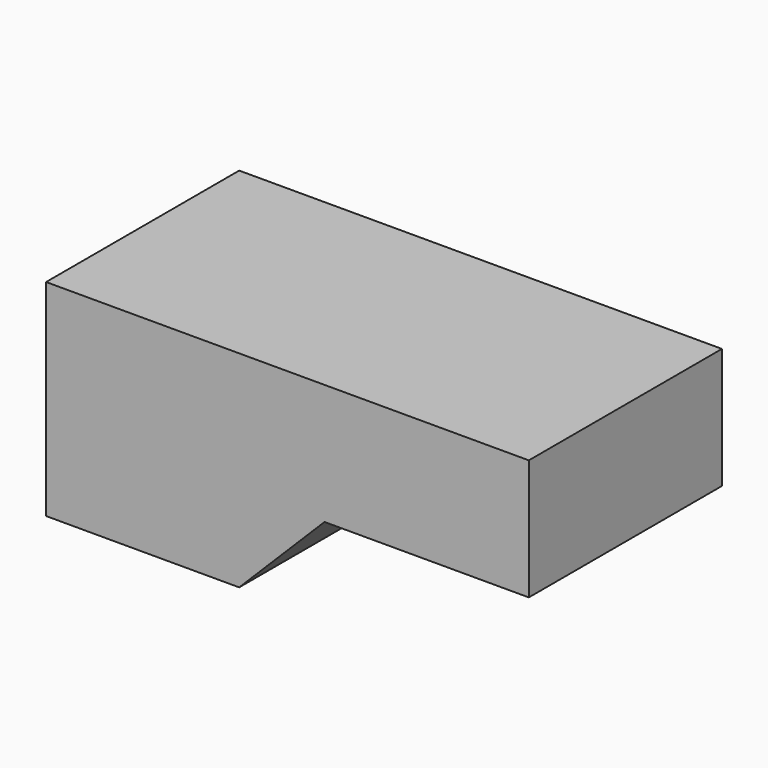
from build123d import *

# Parameters (mm, degrees)
PAD_DEPTH            = 10
BODY_PLACEMENT_ANGLE = 90


with BuildPart() as part:
    # Sketch → Pad (new body)
    with BuildSketch(Plane.XY):
        Polygon((0, 0), (8, 0), (11.535534, 3.535534), (20, 3.535534), (20, 8.535534), (0, 8.535534), align=None)
    extrude(amount=PAD_DEPTH)


with BuildPart() as part_1:
    # Body placement: moved
    add(part.part.rotate(Axis((0, 0, 0), (1, 0, 0)), BODY_PLACEMENT_ANGLE))


solid = part_1.part
